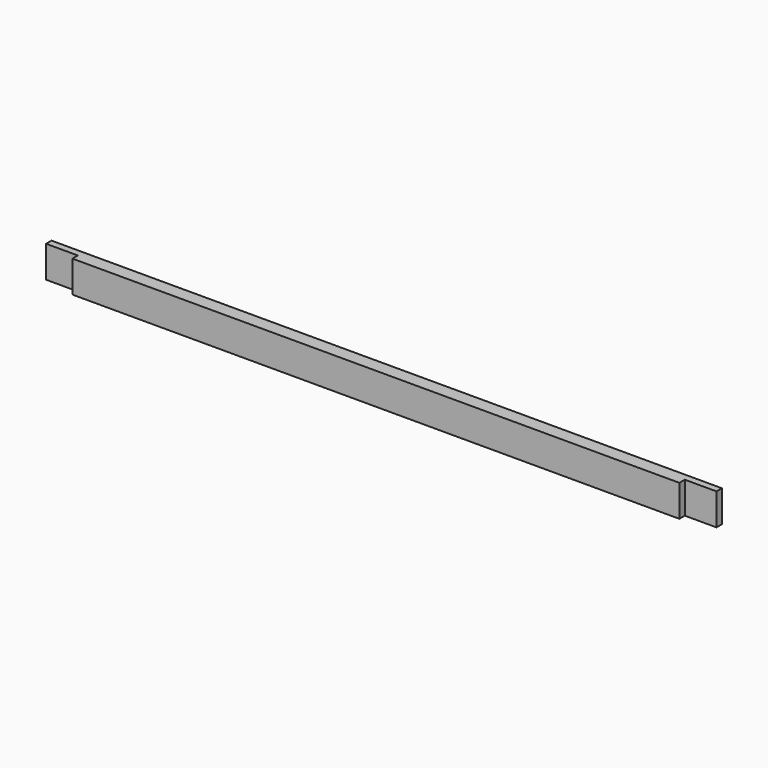
from build123d import *

# Parameters (mm, degrees)
F0_W     = 38.1
F0_H     = 88.9
F1_DEPTH = 939.8
F2_W     = 88.9
F2_H     = 19.05
F3_DEPTH = 88.9


with BuildPart() as f1:
    # F0 (on Right) → F1 (new body)
    with BuildSketch(Plane.YZ):
        Rectangle(F0_W, F0_H)
    extrude(amount=F1_DEPTH)

    # F2 (on face) → F3 (cut, through all)
    with BuildSketch(Plane.XY.offset(44.45)):
        with Locations((895.35, -9.525)):
            Rectangle(F2_W, F2_H)
    extrude(amount=-F3_DEPTH, mode=Mode.SUBTRACT)

    # F4: F1 across plane


with BuildPart() as f1_1:
    add(f1.part)
    add(f1.part.mirror(Plane.YZ))


solid = f1_1.part
